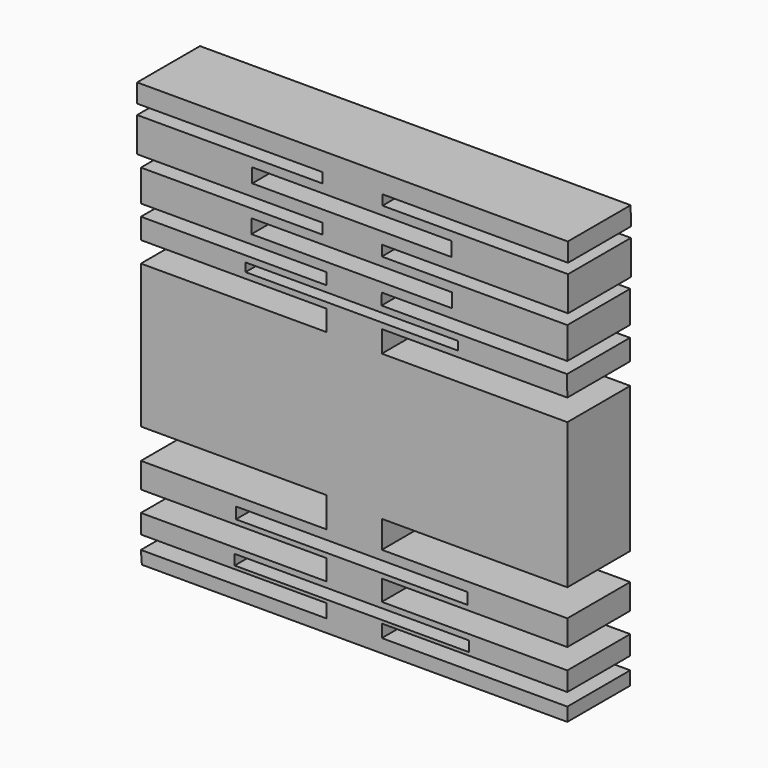
from build123d import *

# Parameters (mm, degrees)
F0_W     = 74.50346
F0_H     = 3.274955
F0_W_2   = 73.696182
F0_H_2   = 3.602445
F0_W_3   = 67.588874
F0_H_3   = 2.725012
F0_W_4   = 63.83992
F0_H_4   = 4.468152
F0_W_5   = 63.333958
F0_H_5   = 4.517406
F1_DEPTH = 25


with BuildPart() as f1:
    # F0 (on Front) → F1 (new body)
    with BuildSketch(Plane.XZ):
        Polygon((-9.271, 66.547699), (-68.2752, 66.547699), (-68.2752, 55.576522), (-9.271, 55.576522), (-9.271, 52.2261), (-67.064233, 52.2261), (-67.064233, 42.154975), (-8.060033, 42.154975), (-8.060033, 38.477365), (-67.064233, 38.477365), (-67.064233, 31.921946), (-8.060033, 31.921946), (-8.060033, 25.357688), (-67.064033, 25.357688), (-67.064033, -20.286324), (-8.060033, -20.286324), (-8.060033, -29.875578), (-67.064033, -29.875578), (-67.064033, -37.924428), (-8.060033, -37.924428), (-8.060033, -44.452265), (-67.064033, -44.452265), (-67.064033, -50.510932), (-8.060033, -50.510932), (-8.060033, -54.816686), (-67.064033, -54.816686), (-66.763967, -58.875896), (0.272814, -58.875896), (68.547814, -58.875896), (68.547814, -54.591775), (9.543814, -54.591775), (9.543814, -50.510932), (68.547814, -50.510932), (68.547814, -44.452265), (9.543814, -44.452265), (9.543814, -37.924428), (68.547814, -37.924428), (68.547814, -29.875578), (9.543814, -29.875578), (9.543814, -21.194663), (68.547814, -21.194663), (68.547814, 25.043493), (9.543614, 25.043493), (9.543614, 31.921946), (68.547814, 31.921946), (68.457246, 38.477365), (9.452255, 38.477365), (9.543614, 42.154975), (68.547814, 42.154975), (68.547814, 52.2261), (9.543614, 52.2261), (9.543614, 55.576522), (68.765074, 55.576522), (68.765074, 66.547699), (9.760874, 66.547699), (9.760874, 69.739483), (68.765074, 69.739483), (68.691202, 75.680681), (0, 75.680681), (-68.2752, 75.680681), (-68.2752, 69.739483), (-9.271, 69.739483), align=None)
        with Locations((0, -47.865313)):
            Rectangle(F0_W, F0_H, mode=Mode.SUBTRACT)
        with Locations((0, -34.627404)):
            Rectangle(F0_W_2, F0_H_2, mode=Mode.SUBTRACT)
        with Locations((0, 35.136901)):
            Rectangle(F0_W_3, F0_H_3, mode=Mode.SUBTRACT)
        with Locations((0, 47.245298)):
            Rectangle(F0_W_4, F0_H_4, mode=Mode.SUBTRACT)
        with Locations((0, 61.560932)):
            Rectangle(F0_W_5, F0_H_5, mode=Mode.SUBTRACT)
    extrude(amount=F1_DEPTH)


solid = f1.part
